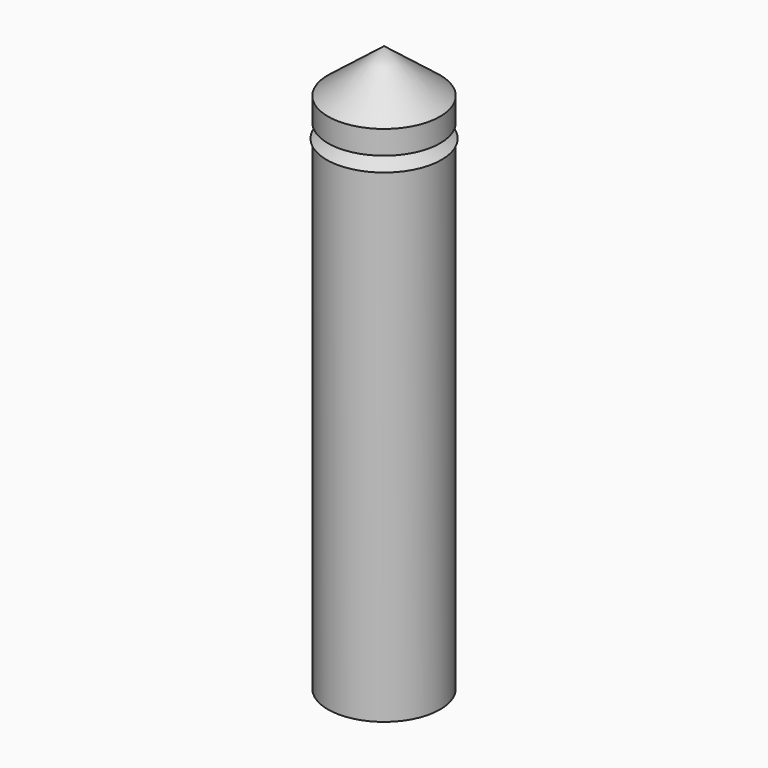
from build123d import *


with BuildPart() as f1:
    # F0 (on Front) → F1 (revolve)
    with BuildSketch(Plane.XZ):
        Polygon((4.187817, 5.523331), (0, 5.523331), (0, -28.086297), (0, -89.502007), (11, -89.502007), (11, 5.523331), (11.282928, 5.523331), (5.634693, 8.706216), (5.634693, 8.953586), (6.063399, 9.249599), (6.063399, 9.297321), (6.309645, 9.494761), (6.309645, 9.994924), (4.187817, 9.994924), align=None)
        Polygon((11, 12.908013), (0, 21.497463), (0, 19.48731), (6.492104, 11.390365), (6.492104, 9.641056), (6.309645, 9.494761), (6.309645, 9.419627), (6.063399, 9.249599), (6.063399, 8.712003), (6.819631, 8.285852), (11, 8.285852), align=None)
    revolve(axis=Axis((0, 0, -0.502539), (0, 0, -1)))


solid = f1.part
